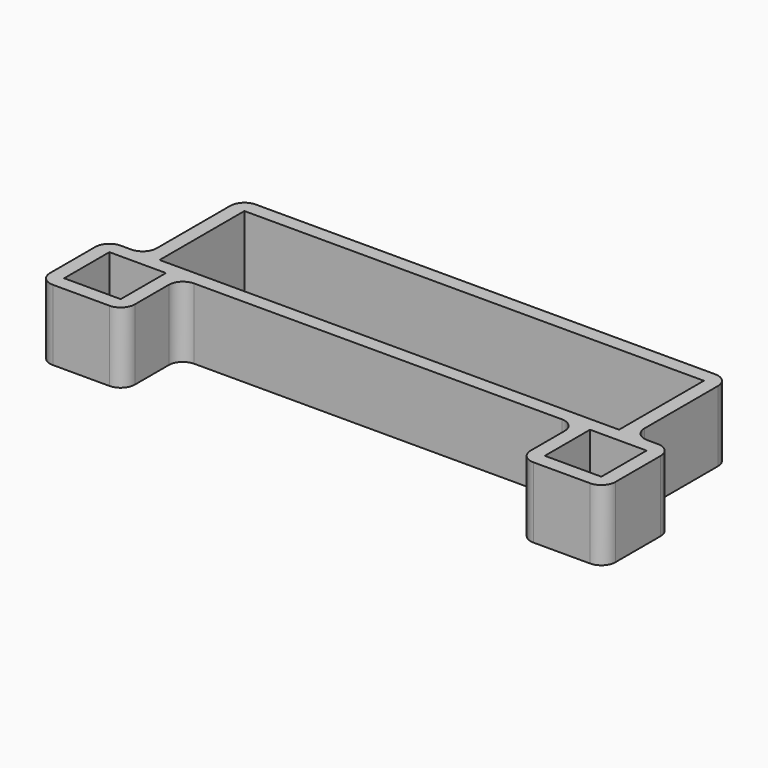
from build123d import *

# Parameters (mm, degrees)
F0_W     = 65
F0_H     = 15
F1_DEPTH = 10
F2_R     = 2


with BuildPart() as f1:
    # F0 (on Top) → F1 (new body)
    with BuildSketch(Plane.XY):
        Polygon((-40, -6), (-28, -6), (-28, 4), (28, 4), (28, -6), (40, -6), (40, 6), (34.5, 6), (34.5, 23), (-34.5, 23), (-34.5, 6), (-40, 6), align=None)
        Polygon((-38, 4), (-34.5, 4), (-30, 4), (-30, -4), (-38, -4), align=None, mode=Mode.SUBTRACT)
        Polygon((38, -4), (30, -4), (30, 4), (34.5, 4), (38, 4), align=None, mode=Mode.SUBTRACT)
        with Locations((0, 13.5)):
            Rectangle(F0_W, F0_H, mode=Mode.SUBTRACT)
    extrude(amount=F1_DEPTH)

    # F2
    f2_edges = [f1.edges().sort_by_distance(p)[0] for p in [
        (-34.5, 23, 5),
        (-40, 6, 5),
        (-40, -6, 5),
        (-28, -6, 5),
        (-28, 4, 5),
        (-34.5, 6, 5),
        (34.5, 23, 5),
        (34.5, 6, 5),
        (40, 6, 5),
        (40, -6, 5),
        (28, 4, 5),
        (28, -6, 5),
    ]]
    fillet(f2_edges, radius=F2_R)


solid = f1.part
